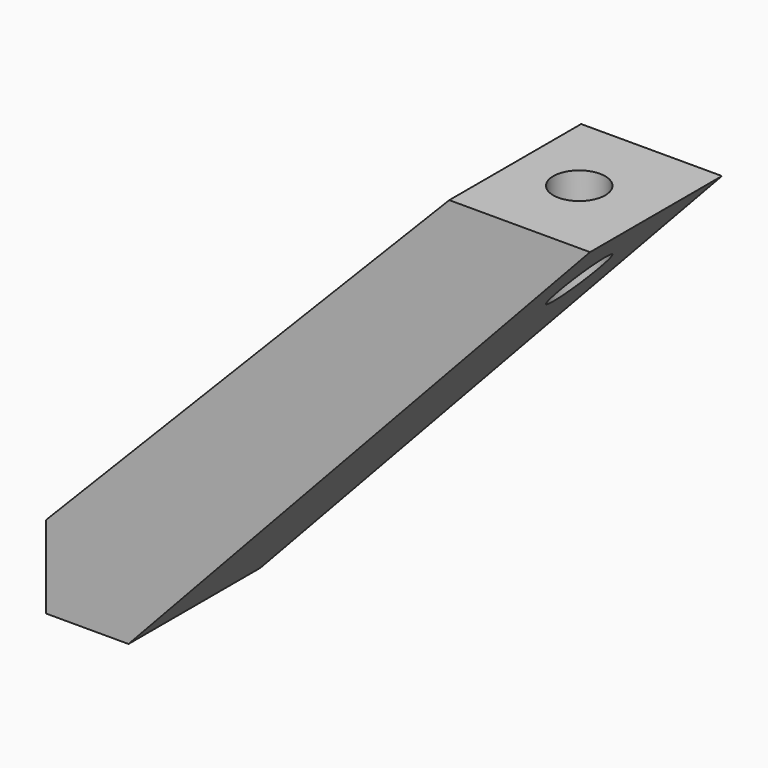
from build123d import *

# Parameters (mm, degrees)
F1_DEPTH = 12.7
F2_R     = 4
F3_DEPTH = 25.4


with BuildPart() as f1:
    # F0 (on Front) → F1 (new body, symmetric)
    with BuildSketch(Plane.XZ):
        Polygon((-37.331276, -25.252699), (-37.331276, -37.952699), (-24.631276, -37.952699), (46.483805, 38.328189), (24.792205, 38.328189), align=None)
    extrude(amount=F1_DEPTH, both=True)

    # F2 (on face) → F3 (cut)
    with BuildSketch(Plane.XY.offset(38.328189)):
        with Locations((34.659129, 0)):
            Circle(F2_R)
    extrude(amount=-F3_DEPTH, mode=Mode.SUBTRACT)


solid = f1.part
